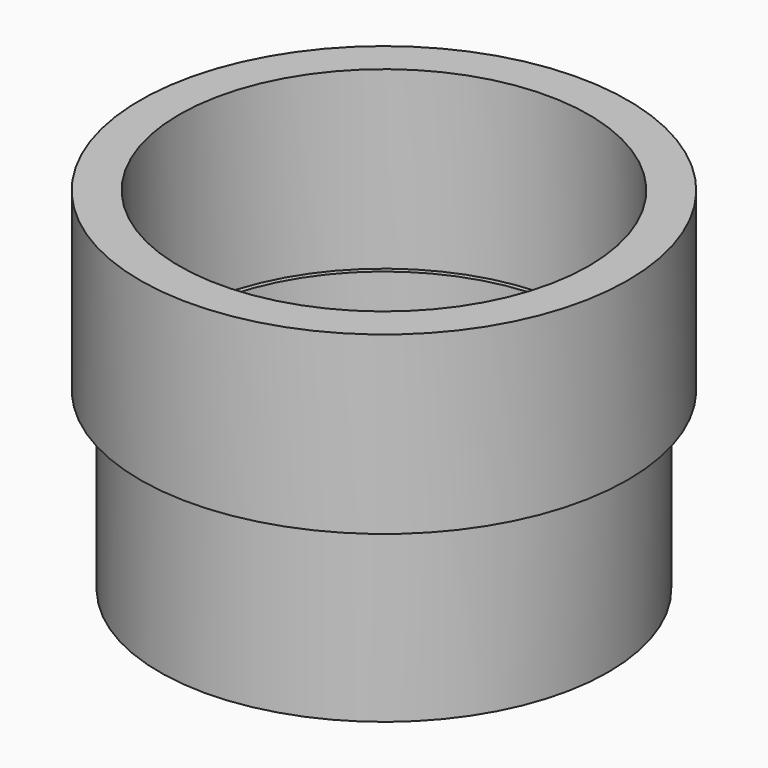
from build123d import *

# Parameters (mm, degrees)
F0_R     = 63.5
F1_DEPTH = 45.72
F2_R     = 53.34
F3_DEPTH = 50.8
F4_R     = 58.42
F5_DEPTH = 45.72
F6_R     = 52.07
F7_DEPTH = 127


with BuildPart() as f1:
    # F0 (on Top) → F1 (new body)
    with BuildSketch(Plane.XY):
        Circle(F0_R)
    extrude(amount=F1_DEPTH)

    # F2 (on face) → F3 (cut)
    with BuildSketch(Plane.XY.offset(45.72)):
        Circle(F2_R)
    extrude(amount=-F3_DEPTH, mode=Mode.SUBTRACT)

    # F4 (on Top) → F5 (join)
    with BuildSketch(Plane.XY):
        Circle(F4_R)
    extrude(amount=-F5_DEPTH)

    # F6 (on face) → F7 (cut)
    with BuildSketch(Plane(origin=(0, 0, -45.72), x_dir=(1, 0, 0), z_dir=(0, 0, -1))):
        Circle(F6_R)
    extrude(amount=-F7_DEPTH, mode=Mode.SUBTRACT)


solid = f1.part
